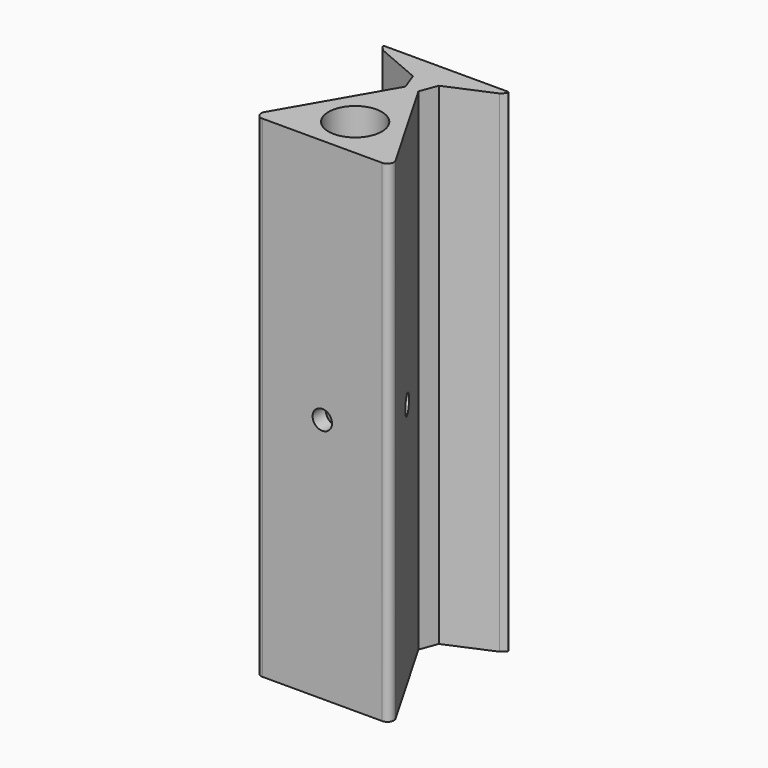
from build123d import *

# Parameters (mm, degrees)
SKETCH_R           = 4.125
PAD_DEPTH          = 76
SKETCH001_R        = 1.5
POCKET_DEPTH       = 5
POLARPATTERN_COUNT = 3
FILLET_R           = 1
FILLET001_R        = 0.2


with BuildPart() as part:
    # Sketch → Pad (new body)
    with BuildSketch(Plane.XY):
        Polygon((-11, -6.350853), (-1, 10.969655), (-2, 13.669655), (-9, 16.669655), (-10, 17.669655), (10, 17.669655), (9, 16.669655), (2, 13.669655), (1, 10.969655), (11, -6.350853), align=None)
        Circle(SKETCH_R, mode=Mode.SUBTRACT)
    extrude(amount=PAD_DEPTH)

    # Sketch001 → Pocket (cut)
    with BuildSketch(Plane.XZ.offset(6.350853)):
        with Locations((0, 38)):
            Circle(SKETCH001_R)
    pocket = extrude(amount=-POCKET_DEPTH, mode=Mode.SUBTRACT)

    # PolarPattern: Pocket ×3 about axis
    polarpattern_axis = Axis((0, 0, 0), (0, 0, 1))
    for i in range(1, POLARPATTERN_COUNT):
        add(pocket.rotate(polarpattern_axis, i * 360 / POLARPATTERN_COUNT), mode=Mode.SUBTRACT)

    # Fillet
    fillet_edges = [part.edges().sort_by_distance(p)[0] for p in [
        (11, -6.350853, 38),
        (-11, -6.350853, 38),
    ]]
    fillet(fillet_edges, radius=FILLET_R)

    # Fillet001
    fillet001_edges = [part.edges().sort_by_distance(p)[0] for p in [
        (10, 17.669655, 38),
        (-10, 17.669655, 38),
    ]]
    fillet(fillet001_edges, radius=FILLET001_R)


solid = part.part
